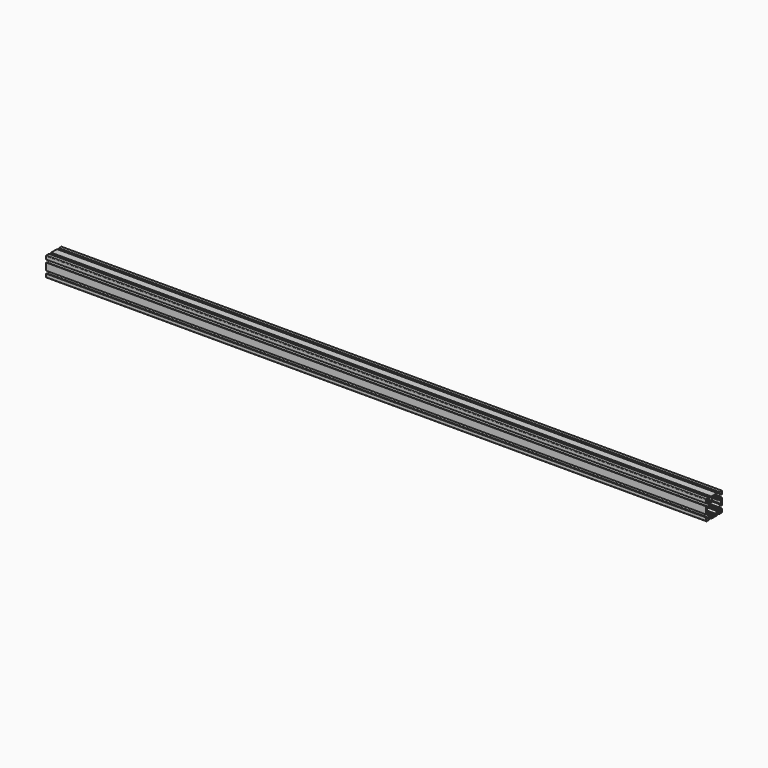
from build123d import *

# Parameters (mm, degrees)
F1_DEPTH = 2020
F2_R     = 2


with BuildPart() as f1:
    # F0 (on Right) → F1 (new body)
    with BuildSketch(Plane.YZ):
        with BuildLine():
            Line((-10.612364, -17.972602), (-9.290568, -19.387636))
            Line((-9.290568, -19.387636), (-5.661865, -23.272303))
            Line((-5.661865, -23.272303), (-5.661865, -27.022303))
            Line((-5.661865, -27.022303), (5.661865, -27.022303))
            Line((5.661865, -27.022303), (5.661865, -23.272303))
            Line((5.661865, -23.272303), (10.612364, -17.972602))
            Line((10.612364, -17.972602), (10.612364, -14))
            Line((10.612364, -14), (11.750385, -14))
            ThreePointArc((11.750385, -14), (17.404163, -17.404163), (14, -11.750385))
            Line((14, -11.750385), (14, -10.612364))
            Line((14, -10.612364), (17.972602, -10.612364))
            Line((17.972602, -10.612364), (23.272303, -5.661865))
            Line((23.272303, -5.661865), (27.022303, -5.661865))
            Line((27.022303, -5.661865), (27.022303, 5.661865))
            Line((27.022303, 5.661865), (23.272303, 5.661865))
            Line((23.272303, 5.661865), (17.972602, 10.612364))
            Line((17.972602, 10.612364), (14, 10.612364))
            Line((14, 10.612364), (14, 11.750385))
            ThreePointArc((14, 11.750385), (17.404163, 17.404163), (11.750385, 14))
            Line((11.750385, 14), (10.612364, 14))
            Line((10.612364, 14), (10.612364, 17.972602))
            Line((10.612364, 17.972602), (5.661865, 23.272303))
            Line((5.661865, 23.272303), (5.661865, 27.022303))
            Line((5.661865, 27.022303), (-5.661865, 27.022303))
            Line((-5.661865, 27.022303), (-5.661865, 23.272303))
            Line((-5.661865, 23.272303), (-10.612364, 17.972602))
            Line((-10.612364, 17.972602), (-10.612364, 14))
            Line((-10.612364, 14), (-11.750385, 14))
            ThreePointArc((-11.750385, 14), (-17.404163, 17.404163), (-14, 11.750385))
            Line((-14, 11.750385), (-14, 10.612364))
            Line((-14, 10.612364), (-17.972602, 10.612364))
            Line((-17.972602, 10.612364), (-23.272303, 5.661865))
            Line((-23.272303, 5.661865), (-27.022303, 5.661865))
            Line((-27.022303, 5.661865), (-27.022303, -5.661865))
            Line((-27.022303, -5.661865), (-23.272303, -5.661865))
            Line((-23.272303, -5.661865), (-17.972602, -10.612364))
            Line((-17.972602, -10.612364), (-14.710301, -10.612364))
            Line((-14.710301, -10.612364), (-14.710301, -11.612364))
            ThreePointArc((-14.710301, -11.612364), (-17.134687, -17.646339), (-11.750385, -14))
            Line((-11.750385, -14), (-10.612364, -14))
            Line((-10.612364, -14), (-10.612364, -17.972602))
        make_face()
        Polygon((30, 19.022303), (30, 30), (19, 30), (19, 27.088135), (22.311088, 27.088135), (22.311088, 24.032154), (17.972602, 19.387636), (14.198971, 19.387636), (12.027398, 19.387636), (7.688912, 24.032154), (7.688912, 26.953727), (7.688912, 27.953727), (11.938912, 27.953727), (11.938912, 30), (-11, 30), (-11, 28), (-7.688912, 28), (-7.688912, 24.032154), (-12.027398, 19.387636), (-17.972602, 19.387636), (-22.311088, 24.032154), (-22.311088, 27.088135), (-19, 27.088135), (-19, 30), (-30, 30), (-30, 19), (-27.088135, 19), (-27.088135, 23.272303), (-24.338135, 23.272303), (-19.387636, 17.972602), (-19.387636, 12.027398), (-24.032154, 7.688912), (-28, 7.688912), (-28, 11), (-30, 11), (-30, -11), (-28, -11), (-28, -7.688912), (-24.032154, -7.688912), (-19.387636, -12.027398), (-19.387636, -17.972602), (-24.338135, -23.272303), (-27.088135, -23.272303), (-27.088135, -19), (-30, -19), (-30, -30), (-19, -30), (-19, -27.088135), (-22.311088, -27.088135), (-22.311088, -24.032154), (-17.972602, -19.387636), (-12.027398, -19.387636), (-7.688912, -24.032154), (-7.688912, -28), (-11, -28), (-11, -30), (11.938912, -30), (11.938912, -27.953727), (7.688912, -27.953727), (7.688912, -26.953727), (7.688912, -24.032154), (12.027398, -19.387636), (14.198971, -19.387636), (17.972602, -19.387636), (22.311088, -24.032154), (22.311088, -27.088135), (19, -27.088135), (19, -30), (30, -30), (30, -19.022303), (27.088135, -19.022303), (27.088135, -23.272303), (24.338135, -23.272303), (19.387636, -17.972602), (19.387636, -12.027398), (24.032154, -7.688912), (28, -7.688912), (28, -11), (30, -11), (30, 11), (28, 11), (28, 7.688912), (24.032154, 7.688912), (19.387636, 12.027398), (19.387636, 17.972602), (24.338135, 23.272303), (27.088135, 23.272303), (27.088135, 19.022303), align=None)
        with BuildLine():
            Line((-5.661865, -23.272303), (-9.290568, -19.387636))
            Line((-9.290568, -19.387636), (-10.612364, -17.972602))
            Line((-10.612364, -17.972602), (-10.612364, -14))
            Line((-10.612364, -14), (-11.750385, -14))
            ThreePointArc((-11.750385, -14), (-17.134687, -17.646339), (-14.710301, -11.612364))
            Line((-14.710301, -11.612364), (-14.710301, -10.612364))
            Line((-14.710301, -10.612364), (-17.972602, -10.612364))
            Line((-17.972602, -10.612364), (-23.272303, -5.661865))
            Line((-23.272303, -5.661865), (-27.022303, -5.661865))
            Line((-27.022303, -5.661865), (-27.022303, 5.661865))
            Line((-27.022303, 5.661865), (-23.272303, 5.661865))
            Line((-23.272303, 5.661865), (-17.972602, 10.612364))
            Line((-17.972602, 10.612364), (-14, 10.612364))
            Line((-14, 10.612364), (-14, 11.750385))
            ThreePointArc((-14, 11.750385), (-17.404163, 17.404163), (-11.750385, 14))
            Line((-11.750385, 14), (-10.612364, 14))
            Line((-10.612364, 14), (-10.612364, 17.972602))
            Line((-10.612364, 17.972602), (-5.661865, 23.272303))
            Line((-5.661865, 23.272303), (-5.661865, 27.022303))
            Line((-5.661865, 27.022303), (5.661865, 27.022303))
            Line((5.661865, 27.022303), (5.661865, 23.272303))
            Line((5.661865, 23.272303), (10.612364, 17.972602))
            Line((10.612364, 17.972602), (10.612364, 14))
            Line((10.612364, 14), (11.750385, 14))
            ThreePointArc((11.750385, 14), (17.404163, 17.404163), (14, 11.750385))
            Line((14, 11.750385), (14, 10.612364))
            Line((14, 10.612364), (17.972602, 10.612364))
            Line((17.972602, 10.612364), (23.272303, 5.661865))
            Line((23.272303, 5.661865), (27.022303, 5.661865))
            Line((27.022303, 5.661865), (27.022303, -5.661865))
            Line((27.022303, -5.661865), (23.272303, -5.661865))
            Line((23.272303, -5.661865), (17.972602, -10.612364))
            Line((17.972602, -10.612364), (14, -10.612364))
            Line((14, -10.612364), (14, -11.750385))
            ThreePointArc((14, -11.750385), (17.404163, -17.404163), (11.750385, -14))
            Line((11.750385, -14), (10.612364, -14))
            Line((10.612364, -14), (10.612364, -17.972602))
            Line((10.612364, -17.972602), (5.661865, -23.272303))
            Line((5.661865, -23.272303), (5.661865, -27.022303))
            Line((5.661865, -27.022303), (-5.661865, -27.022303))
            Line((-5.661865, -27.022303), (-5.661865, -23.272303))
        make_face(mode=Mode.SUBTRACT)
    extrude(amount=F1_DEPTH)

    # F2
    f2_edges = [f1.edges().sort_by_distance(p)[0] for p in [
        (1010, -30, 30),
        (1010, 30, 30),
        (1010, 30, -30),
        (1010, -30, -30),
    ]]
    fillet(f2_edges, radius=F2_R)


solid = f1.part
